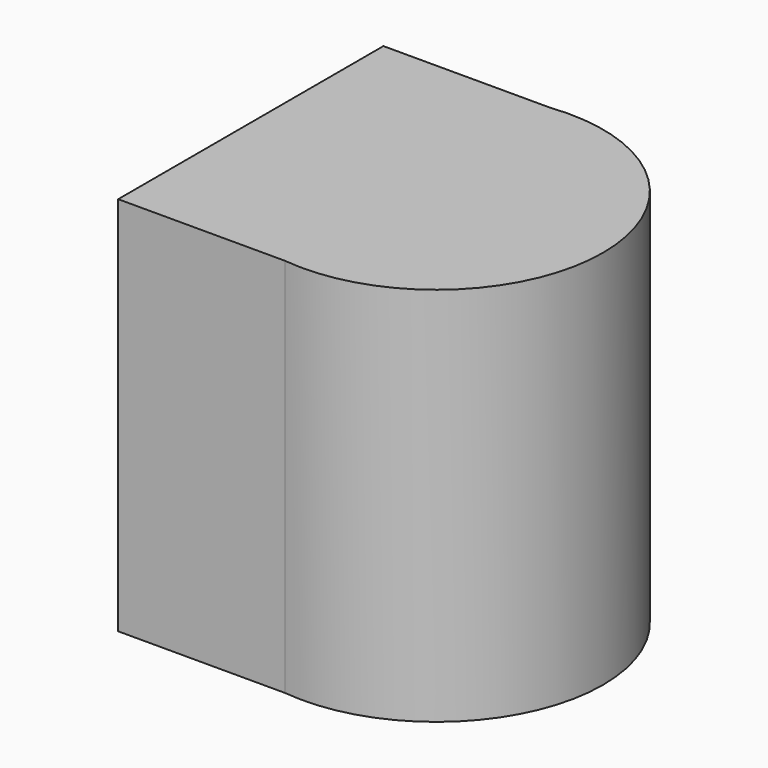
from build123d import *

# Parameters (mm, degrees)
F0_R     = 28.4339715659
F1_DEPTH = 88


with BuildPart() as f1:
    # F0 (on Top) → F1 (new body)
    with BuildSketch(Plane.XY):
        with BuildLine():
            Line((0, 76.6916126013), (0, 0))
            Line((0, 0), (38.5375259096, 0))
            ThreePointArc((38.5375259096, 0), (81.4856227424, 38.3458063006), (38.5375259096, 76.6916126013))
            Line((38.5375259096, 76.6916126013), (0, 76.6916126013))
        make_face()
        with Locations((42.8932271898, 38.3458063006)):
            Circle(F0_R, mode=Mode.SUBTRACT)
        with Locations((42.8932271898, 38.3458063006)):
            Circle(F0_R)
    extrude(amount=F1_DEPTH)


solid = f1.part
